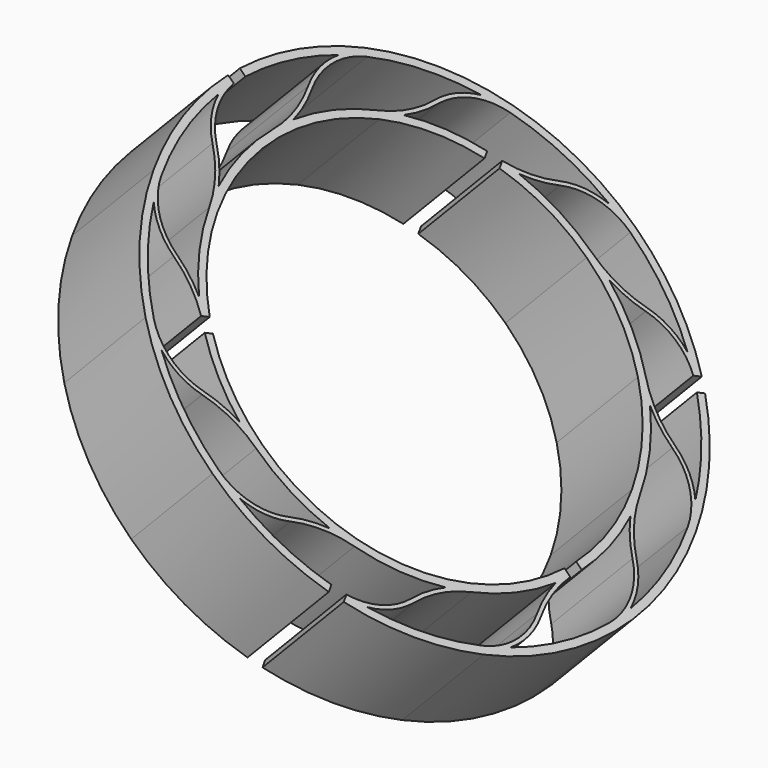
from build123d import *

# Parameters (mm, degrees)
PAD002_DEPTH            = 12
POLARPATTERN001_COUNT   = 12
SKETCH005_W             = 3.78836
SKETCH005_H             = 1.5
POCKET002_DEPTH         = 167.7279405081
POLARPATTERN002_COUNT   = 3
SKETCH006_W             = 4.041916
SKETCH006_H             = 1.5
POCKET003_DEPTH         = 167.7279405081
POLARPATTERN003_COUNT   = 3
BODY001_PLACEMENT_ANGLE = 44


with BuildPart() as part:
    # Sketch004 → Pad002 (new body)
    with BuildSketch(Plane.XY):
        with BuildLine():
            Line((18.0133283987, 10.4), (18.7061487217, 10.8))
            ThreePointArc((18.7061487217, 10.8), (20.591396548, 8.3472710869), (23.0503060469, 6.4700916698))
            ThreePointArc((26.2499326518, 2.8108781143), (24.9566467157, 4.9085132816), (23.0503060469, 6.4700916698))
            ThreePointArc((26.2499326518, 2.8108781143), (25.0999051186, 8.1825890179), (22.8630706599, 13.2))
            Line((22.8630706599, 13.2), (23.5558909829, 13.6))
            ThreePointArc((27.2, 0), (26.2731824751, 7.0398780268), (23.5558909829, 13.6))
            Line((27.2, 0), (26.4, 0))
            ThreePointArc((26.4, 0), (25.4487483131, 3.538491627), (22.8514452277, 6.1230262946))
            ThreePointArc((19.8248338137, 8.5753113214), (21.2394427729, 7.2273572322), (22.8514452277, 6.1230262946))
            ThreePointArc((21.6, 0), (21.1515532571, 4.3785608152), (19.8248338137, 8.5753113214))
            Line((20.8, 0), (21.6, 0))
            ThreePointArc((20.8, 0), (20.0912571868, 5.3834361381), (18.0133283987, 10.4))
        make_face()
    pad002 = extrude(amount=PAD002_DEPTH)

    # PolarPattern001: Pad002 ×12 about axis
    polarpattern001_axis = Axis((0, 0, 0), (0, 0, 1))
    for i in range(1, POLARPATTERN001_COUNT):
        add(pad002.rotate(polarpattern001_axis, i * 360 / POLARPATTERN001_COUNT))

    # Sketch005 → Pocket002 (cut, through all)
    with BuildSketch(Plane.XY):
        with Locations((21.555252, 0)):
            Rectangle(SKETCH005_W, SKETCH005_H)
    pocket002 = extrude(amount=POCKET002_DEPTH, mode=Mode.SUBTRACT)

    # PolarPattern002: Pocket002 ×3 about axis
    polarpattern002_axis = Axis((0, 0, 0), (0, 0, 1))
    for i in range(1, POLARPATTERN002_COUNT):
        add(pocket002.rotate(polarpattern002_axis, i * 360 / POLARPATTERN002_COUNT), mode=Mode.SUBTRACT)

    # Sketch006 → Pocket003 (cut, through all)
    with BuildSketch(Plane(origin=(0, 0, 0), x_dir=(0.5, 0.8660254038, 0), z_dir=(0, 0, 1))):
        with Locations((26.699791, 0)):
            Rectangle(SKETCH006_W, SKETCH006_H)
    pocket003 = extrude(amount=POCKET003_DEPTH, mode=Mode.SUBTRACT)

    # PolarPattern003: Pocket003 ×3 about axis
    polarpattern003_axis = Axis((0, 0, 0), (0, 0, 1))
    for i in range(1, POLARPATTERN003_COUNT):
        add(pocket003.rotate(polarpattern003_axis, i * 360 / POLARPATTERN003_COUNT), mode=Mode.SUBTRACT)


with BuildPart() as part_1:
    # Body001 placement: moved
    add(part.part.moved(Location((54.1455023565, -0.1, 64.0360868123))).rotate(Axis((54.1455023565, -0.1, 64.0360868123), (0, 1, 0)), BODY001_PLACEMENT_ANGLE))


solid = part_1.part
